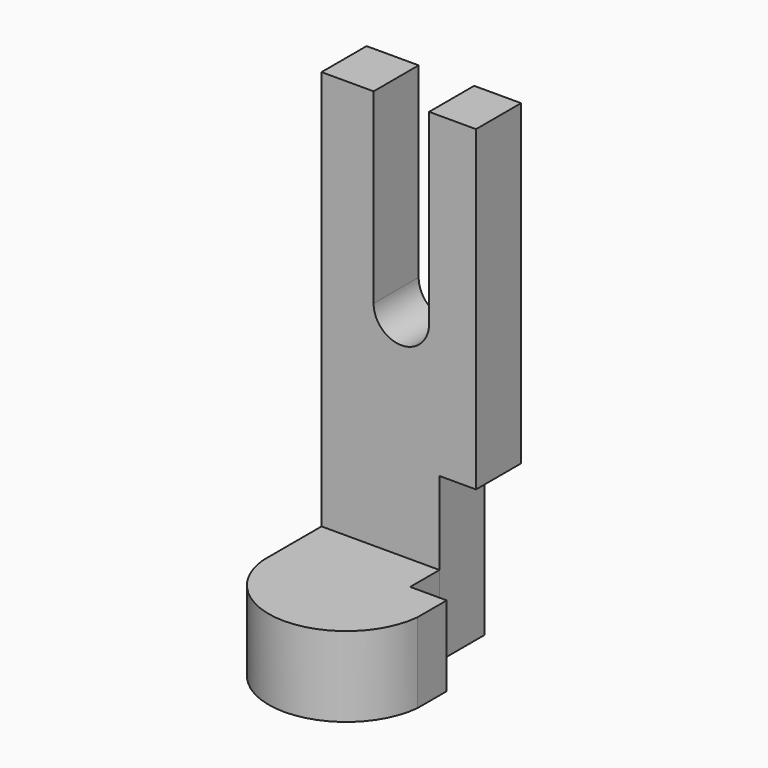
from build123d import *

# Parameters (mm, degrees)
F0_W      = 49.054298
F0_H      = 64.38637
F1_DEPTH  = 25.4
F2_W      = 49.054298
F2_H      = 17.881159
F3_DEPTH  = 127
F5_DEPTH  = 25.4
F6_W      = 11.602983
F6_H      = 11.626302
F7_DEPTH  = 25.4
F8_W      = 11.539154
F8_H      = 51.684823
F9_DEPTH  = 25.4
F11_DEPTH = 25.4


with BuildPart() as f1:
    # F0 (on Top) → F1 (new body)
    with BuildSketch(Plane.XY):
        with Locations((-51.795205, -42.034886)):
            Rectangle(F0_W, F0_H)
    extrude(amount=F1_DEPTH)

    # F2 (on face) → F3 (join)
    with BuildSketch(Plane.XY.offset(25.4)):
        with Locations((-51.795205, -18.78228)):
            Rectangle(F2_W, F2_H)
    extrude(amount=F3_DEPTH)

    # F4 (on face) → F5 (cut)
    with BuildSketch(Plane.XY.offset(25.4)):
        with BuildLine():
            ThreePointArc((-27.268056, -50.975465), (-51.795205, -73.206329), (-76.322354, -50.975465))
            Line((-76.322354, -50.975465), (-76.322354, -74.228071))
            Line((-76.322354, -74.228071), (-27.268056, -74.228071))
            Line((-27.268056, -74.228071), (-27.268056, -50.975465))
        make_face()
    extrude(amount=-F5_DEPTH, mode=Mode.SUBTRACT)

    # F6 (on face) → F7 (cut)
    with BuildSketch(Plane.XY.offset(25.4)):
        with Locations((-33.069547, -33.536011)):
            Rectangle(F6_W, F6_H)
    extrude(amount=-F7_DEPTH, mode=Mode.SUBTRACT)

    # F8 (on face) → F9 (cut)
    with BuildSketch(Plane.XZ.offset(27.72286)):
        with Locations((-33.037633, 25.842411)):
            Rectangle(F8_W, F8_H)
    extrude(amount=-F9_DEPTH, mode=Mode.SUBTRACT)

    # F10 (on face) → F11 (cut)
    with BuildSketch(Plane.XZ.offset(27.72286)):
        with BuildLine():
            Line((-42.163644, 152.4), (-59.784923, 152.4))
            Line((-59.784923, 152.4), (-59.784923, 93.090892))
            ThreePointArc((-59.784923, 93.090892), (-50.974283, 84.280252), (-42.163644, 93.090892))
            Line((-42.163644, 93.090892), (-42.163644, 152.4))
        make_face()
    extrude(amount=-F11_DEPTH, mode=Mode.SUBTRACT)


solid = f1.part
